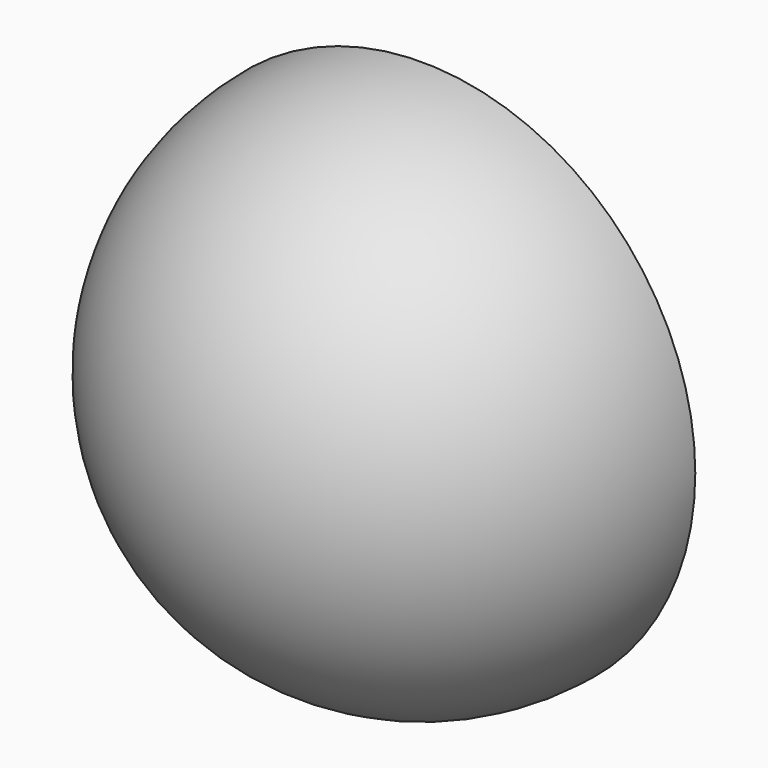
from build123d import *

# Parameters (mm, degrees)
F1_ANGLE = 180
F3_ANGLE = -180
F4_W     = 76.2
F4_H     = 254
F4_W_2   = 254
F4_H_2   = 76.2
F5_DEPTH = 127


with BuildPart() as f1:
    # F0 (on Front) → F1 (revolve)
    with BuildSketch(Plane.XZ):
        with BuildLine():
            Line((298.45, 0), (304.8, 0))
            ThreePointArc((304.8, 0), (0, 304.8), (-304.8, 0))
            Line((-304.8, 0), (-298.45, 0))
            ThreePointArc((-298.45, 0), (0, 298.45), (298.45, 0))
        make_face()
    revolve(axis=Axis((0, 0, 0), (1, 0, 0)), revolution_arc=F1_ANGLE)


with BuildPart() as f3:
    # F2 (on Front) → F3 (revolve)
    with BuildSketch(Plane.XZ):
        with BuildLine():
            Line((244.475, 0), (247.65, 0))
            ThreePointArc((247.65, 0), (0, 247.65), (-247.65, 0))
            Line((-247.65, 0), (-244.475, 0))
            ThreePointArc((-244.475, 0), (0, 244.475), (244.475, 0))
        make_face()
    revolve(axis=Axis((0, 0, 0), (-1, 0, 0)), revolution_arc=F3_ANGLE)


with BuildPart() as f5:
    # F4 (on Front) → F5 (new body)
    with BuildSketch(Plane.XZ):
        with Locations((-142.875, -37.365675)):
            Rectangle(F4_W, F4_H)
        with Locations((37.365675, 142.875)):
            Rectangle(F4_W_2, F4_H_2)
    extrude(amount=F5_DEPTH)


solid = Compound([f1.part, f3.part, f5.part])
